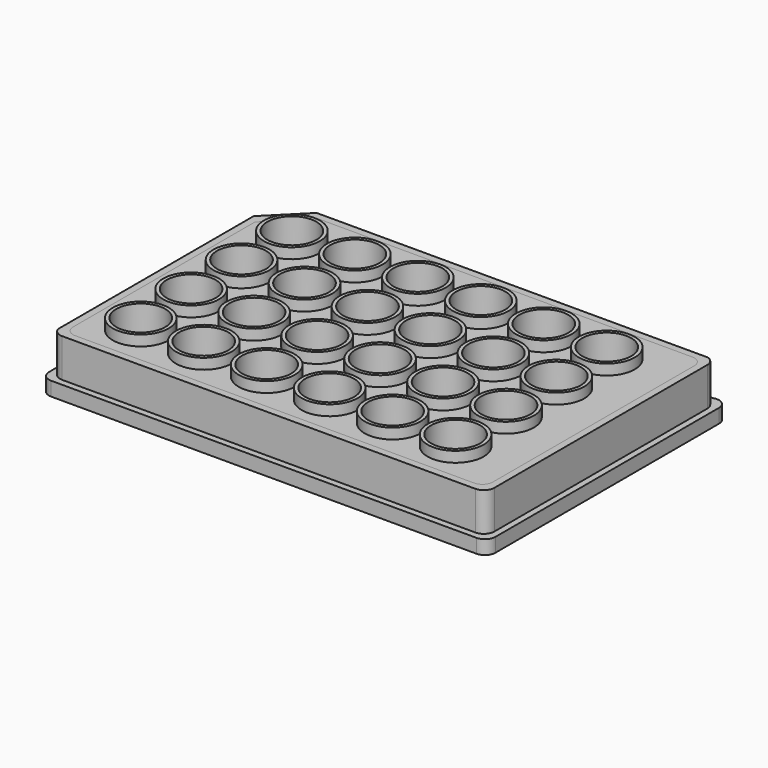
from build123d import *

# Parameters (mm, degrees)
PAD_DEPTH         = 4
CYLINDER001_R     = 7
CYLINDER001_DEPTH = 14
ARRAY_X_COUNT     = 6
ARRAY_X_PITCH     = 18
ARRAY_Y_COUNT     = 4
ARRAY_Y_PITCH     = 18
PAD001_DEPTH      = 11
PAD002_DEPTH      = 4
CYLINDER002_R     = 7
CYLINDER002_DEPTH = 14
ARRAY001_X_COUNT  = 6
ARRAY001_X_PITCH  = 18
ARRAY001_Y_COUNT  = 4
ARRAY001_Y_PITCH  = 18
CYLINDER003_R     = 8
CYLINDER003_DEPTH = 14
ARRAY002_X_COUNT  = 6
ARRAY002_X_PITCH  = 18
ARRAY002_Y_COUNT  = 4
ARRAY002_Y_PITCH  = 18
CYLINDER004_R     = 7
CYLINDER004_DEPTH = 14
ARRAY003_X_COUNT  = 6
ARRAY003_X_PITCH  = 18
ARRAY003_Y_COUNT  = 4
ARRAY003_Y_PITCH  = 18
PAD003_DEPTH      = 11
PAD005_DEPTH      = 4
CYLINDER005_R     = 7
CYLINDER005_DEPTH = 14
ARRAY004_X_COUNT  = 6
ARRAY004_X_PITCH  = 18
ARRAY004_Y_COUNT  = 4
ARRAY004_Y_PITCH  = 18
CYLINDER006_R     = 8
CYLINDER006_DEPTH = 14
ARRAY005_X_COUNT  = 6
ARRAY005_X_PITCH  = 18
ARRAY005_Y_COUNT  = 4
ARRAY005_Y_PITCH  = 18
PAD004_DEPTH      = 11
CYLINDER007_R     = 7
CYLINDER007_DEPTH = 14
ARRAY006_X_COUNT  = 6
ARRAY006_X_PITCH  = 18
ARRAY006_Y_COUNT  = 4
ARRAY006_Y_PITCH  = 18
PAD006_DEPTH      = 11


with BuildPart() as plate_base_down:
    # Sketch → Pad (new body)
    with BuildSketch(Plane.XY):
        with BuildLine():
            Line((113.3, 71.530282), (113.3, -8.36))
            ThreePointArc((110.3, -11.36), (112.42132, -10.48132), (113.3, -8.36))
            Line((110.3, -11.36), (-11.3, -11.36))
            ThreePointArc((-14.3, -8.36), (-13.42132, -10.48132), (-11.3, -11.36))
            Line((-14.3, 71.36), (-14.3, -8.36))
            ThreePointArc((-11.3, 74.36), (-13.42132, 73.48132), (-14.3, 71.36))
            Line((109.30366, 74.36), (-11.3, 74.36))
            ThreePointArc((113.3, 71.530282), (112.033635, 73.978651), (109.30366, 74.36))
        make_face()
    extrude(amount=PAD_DEPTH)


with BuildPart() as plate_base_down_1:
    # Body placement: moved
    add(plate_base_down.part.moved(Location((0, 0, -4))))


with BuildPart() as array_of_wells:
    # Cylinder001 → Cylinder001 (new body)
    with BuildSketch(Plane(origin=(2.2, 3.8, 0), x_dir=(1, 0, 0), z_dir=(0, 0, 1))):
        Circle(CYLINDER001_R)
    extrude(amount=CYLINDER001_DEPTH)

    # Array X: Array of wells ×6


with BuildPart() as array_of_wells_1:
    add(array_of_wells.part)
    with Locations(*[(i * ARRAY_X_PITCH, 0, 0) for i in range(1, ARRAY_X_COUNT)]):
        add(array_of_wells.part)

    # Array Y: Array of wells ×4


with BuildPart() as array_of_wells_2:
    add(array_of_wells_1.part)
    with Locations(*[(0, i * ARRAY_Y_PITCH, 0) for i in range(1, ARRAY_Y_COUNT)]):
        add(array_of_wells_1.part)


with BuildPart() as cutted:
    # Sketch018 → Pad001 (new body)
    with BuildSketch(Plane.XY.offset(4)):
        with BuildLine():
            Line((111.5, 69.60965), (111.5, -6.5))
            ThreePointArc((108.5, -9.5), (110.62132, -8.62132), (111.5, -6.5))
            Line((108.5, -9.5), (-9.627011, -9.5))
            ThreePointArc((-12.5, -7.363675), (-11.417119, -8.907387), (-9.627011, -9.5))
            Line((-12.5, -7.363675), (-12.5, 62.5))
            Line((-2.5, 72.5), (-12.5, 62.5))
            Line((-2.5, 72.5), (109.303666, 72.5))
            ThreePointArc((111.5, 69.60965), (110.888619, 71.424726), (109.303666, 72.5))
        make_face()
    extrude(amount=PAD001_DEPTH)


with BuildPart() as cutted_1:
    # Body012 placement: moved
    add(cutted.part.moved(Location((0, 0, -4))))

    # Cut: cut Array of wells
    add(array_of_wells_2.part, mode=Mode.SUBTRACT)


with BuildPart() as plate_base_down001:
    # Sketch019 → Pad002 (new body)
    with BuildSketch(Plane.XY):
        with BuildLine():
            Line((113.3, 71.530282), (113.3, -8.36))
            ThreePointArc((110.3, -11.36), (112.42132, -10.48132), (113.3, -8.36))
            Line((110.3, -11.36), (-11.3, -11.36))
            ThreePointArc((-14.3, -8.36), (-13.42132, -10.48132), (-11.3, -11.36))
            Line((-14.3, 71.36), (-14.3, -8.36))
            ThreePointArc((-11.3, 74.36), (-13.42132, 73.48132), (-14.3, 71.36))
            Line((109.30366, 74.36), (-11.3, 74.36))
            ThreePointArc((113.3, 71.530282), (112.033635, 73.978651), (109.30366, 74.36))
        make_face()
    extrude(amount=PAD002_DEPTH)


with BuildPart() as plate_base_down001_1:
    # Body013 placement: moved
    add(plate_base_down001.part.moved(Location((0, 0, -4))))


with BuildPart() as array_of_wells001:
    # Cylinder002 → Cylinder002 (new body)
    with BuildSketch(Plane(origin=(2.2, 3.8, 0), x_dir=(1, 0, 0), z_dir=(0, 0, 1))):
        Circle(CYLINDER002_R)
    extrude(amount=CYLINDER002_DEPTH)

    # Array001 X: Array of wells001 ×6


with BuildPart() as array_of_wells001_1:
    add(array_of_wells001.part)
    with Locations(*[(i * ARRAY001_X_PITCH, 0, 0) for i in range(1, ARRAY001_X_COUNT)]):
        add(array_of_wells001.part)

    # Array001 Y: Array of wells001 ×4


with BuildPart() as array_of_wells001_2:
    add(array_of_wells001_1.part)
    with Locations(*[(0, i * ARRAY001_Y_PITCH, 0) for i in range(1, ARRAY001_Y_COUNT)]):
        add(array_of_wells001_1.part)


with BuildPart() as cut001:
    # Cylinder003 → Cylinder003 (new body)
    with BuildSketch(Plane(origin=(2.2, 3.8, 0), x_dir=(1, 0, 0), z_dir=(0, 0, 1))):
        Circle(CYLINDER003_R)
    extrude(amount=CYLINDER003_DEPTH)

    # Array002 X: Cut001 ×6


with BuildPart() as cut001_1:
    add(cut001.part)
    with Locations(*[(i * ARRAY002_X_PITCH, 0, 0) for i in range(1, ARRAY002_X_COUNT)]):
        add(cut001.part)

    # Array002 Y: Cut001 ×4


with BuildPart() as cut001_2:
    add(cut001_1.part)
    with Locations(*[(0, i * ARRAY002_Y_PITCH, 0) for i in range(1, ARRAY002_Y_COUNT)]):
        add(cut001_1.part)

    # Cut001: cut Array of wells001
    add(array_of_wells001_2.part, mode=Mode.SUBTRACT)


with BuildPart() as array_of_wells003:
    # Cylinder004 → Cylinder004 (new body)
    with BuildSketch(Plane(origin=(2.2, 3.8, 0), x_dir=(1, 0, 0), z_dir=(0, 0, 1))):
        Circle(CYLINDER004_R)
    extrude(amount=CYLINDER004_DEPTH)

    # Array003 X: Array of wells003 ×6


with BuildPart() as array_of_wells003_1:
    add(array_of_wells003.part)
    with Locations(*[(i * ARRAY003_X_PITCH, 0, 0) for i in range(1, ARRAY003_X_COUNT)]):
        add(array_of_wells003.part)

    # Array003 Y: Array of wells003 ×4


with BuildPart() as array_of_wells003_2:
    add(array_of_wells003_1.part)
    with Locations(*[(0, i * ARRAY003_Y_PITCH, 0) for i in range(1, ARRAY003_Y_COUNT)]):
        add(array_of_wells003_1.part)


with BuildPart() as cut002:
    # Sketch020 → Pad003 (new body)
    with BuildSketch(Plane.XY.offset(4)):
        with BuildLine():
            Line((111.5, 69.60965), (111.5, -6.5))
            ThreePointArc((108.5, -9.5), (110.62132, -8.62132), (111.5, -6.5))
            Line((108.5, -9.5), (-9.627011, -9.5))
            ThreePointArc((-12.5, -7.363675), (-11.417119, -8.907387), (-9.627011, -9.5))
            Line((-12.5, -7.363675), (-12.5, 62.5))
            Line((-2.5, 72.5), (-12.5, 62.5))
            Line((-2.5, 72.5), (109.303666, 72.5))
            ThreePointArc((111.5, 69.60965), (110.888619, 71.424726), (109.303666, 72.5))
        make_face()
    extrude(amount=PAD003_DEPTH)


with BuildPart() as cut002_1:
    # Body014 placement: moved
    add(cut002.part.moved(Location((0, 0, -4))))

    # Cut002: cut Array of wells003
    add(array_of_wells003_2.part, mode=Mode.SUBTRACT)


with BuildPart() as plate_base_down002:
    # Sketch022 → Pad005 (new body)
    with BuildSketch(Plane.XY):
        with BuildLine():
            Line((113.3, 71.530282), (113.3, -8.36))
            ThreePointArc((110.3, -11.36), (112.42132, -10.48132), (113.3, -8.36))
            Line((110.3, -11.36), (-11.3, -11.36))
            ThreePointArc((-14.3, -8.36), (-13.42132, -10.48132), (-11.3, -11.36))
            Line((-14.3, 71.36), (-14.3, -8.36))
            ThreePointArc((-11.3, 74.36), (-13.42132, 73.48132), (-14.3, 71.36))
            Line((109.30366, 74.36), (-11.3, 74.36))
            ThreePointArc((113.3, 71.530282), (112.033635, 73.978651), (109.30366, 74.36))
        make_face()
    extrude(amount=PAD005_DEPTH)


with BuildPart() as plate_base_down002_1:
    # Body016 placement: moved
    add(plate_base_down002.part.moved(Location((0, 0, -4))))


with BuildPart() as array_of_wells004:
    # Cylinder005 → Cylinder005 (new body)
    with BuildSketch(Plane(origin=(2.2, 3.8, 0), x_dir=(1, 0, 0), z_dir=(0, 0, 1))):
        Circle(CYLINDER005_R)
    extrude(amount=CYLINDER005_DEPTH)

    # Array004 X: Array of wells004 ×6


with BuildPart() as array_of_wells004_1:
    add(array_of_wells004.part)
    with Locations(*[(i * ARRAY004_X_PITCH, 0, 0) for i in range(1, ARRAY004_X_COUNT)]):
        add(array_of_wells004.part)

    # Array004 Y: Array of wells004 ×4


with BuildPart() as array_of_wells004_2:
    add(array_of_wells004_1.part)
    with Locations(*[(0, i * ARRAY004_Y_PITCH, 0) for i in range(1, ARRAY004_Y_COUNT)]):
        add(array_of_wells004_1.part)


with BuildPart() as cut003:
    # Cylinder006 → Cylinder006 (new body)
    with BuildSketch(Plane(origin=(2.2, 3.8, 0), x_dir=(1, 0, 0), z_dir=(0, 0, 1))):
        Circle(CYLINDER006_R)
    extrude(amount=CYLINDER006_DEPTH)

    # Array005 X: Cut003 ×6


with BuildPart() as cut003_1:
    add(cut003.part)
    with Locations(*[(i * ARRAY005_X_PITCH, 0, 0) for i in range(1, ARRAY005_X_COUNT)]):
        add(cut003.part)

    # Array005 Y: Cut003 ×4


with BuildPart() as cut003_2:
    add(cut003_1.part)
    with Locations(*[(0, i * ARRAY005_Y_PITCH, 0) for i in range(1, ARRAY005_Y_COUNT)]):
        add(cut003_1.part)

    # Cut003: cut Array of wells004
    add(array_of_wells004_2.part, mode=Mode.SUBTRACT)


with BuildPart() as plate_middle_recess:
    # Sketch021 → Pad004 (new body)
    with BuildSketch(Plane.XY.offset(4)):
        with BuildLine():
            Line((109.5, 67.5), (109.5, -4.5))
            ThreePointArc((106.5, -7.5), (108.62132, -6.62132), (109.5, -4.5))
            Line((106.5, -7.5), (-7.5, -7.5))
            ThreePointArc((-10.5, -4.5), (-9.62132, -6.62132), (-7.5, -7.5))
            Line((-10.5, -4.5), (-10.5, 60.5))
            Line((-0.5, 70.5), (-10.5, 60.5))
            Line((-0.5, 70.5), (106.5, 70.5))
            ThreePointArc((109.5, 67.5), (108.62132, 69.62132), (106.5, 70.5))
        make_face()
    extrude(amount=PAD004_DEPTH)


with BuildPart() as plate_middle_recess_1:
    # Body015 placement: moved
    add(plate_middle_recess.part.moved(Location((0, 0, -3))))


with BuildPart() as array_of_wells006:
    # Cylinder007 → Cylinder007 (new body)
    with BuildSketch(Plane(origin=(2.2, 3.8, 0), x_dir=(1, 0, 0), z_dir=(0, 0, 1))):
        Circle(CYLINDER007_R)
    extrude(amount=CYLINDER007_DEPTH)

    # Array006 X: Array of wells006 ×6


with BuildPart() as array_of_wells006_1:
    add(array_of_wells006.part)
    with Locations(*[(i * ARRAY006_X_PITCH, 0, 0) for i in range(1, ARRAY006_X_COUNT)]):
        add(array_of_wells006.part)

    # Array006 Y: Array of wells006 ×4


with BuildPart() as array_of_wells006_2:
    add(array_of_wells006_1.part)
    with Locations(*[(0, i * ARRAY006_Y_PITCH, 0) for i in range(1, ARRAY006_Y_COUNT)]):
        add(array_of_wells006_1.part)


with BuildPart() as cut005:
    # Sketch023 → Pad006 (new body)
    with BuildSketch(Plane.XY.offset(4)):
        with BuildLine():
            Line((111.5, 69.60965), (111.5, -6.5))
            ThreePointArc((108.5, -9.5), (110.62132, -8.62132), (111.5, -6.5))
            Line((108.5, -9.5), (-9.627011, -9.5))
            ThreePointArc((-12.5, -7.363675), (-11.417119, -8.907387), (-9.627011, -9.5))
            Line((-12.5, -7.363675), (-12.5, 62.5))
            Line((-2.5, 72.5), (-12.5, 62.5))
            Line((-2.5, 72.5), (109.303666, 72.5))
            ThreePointArc((111.5, 69.60965), (110.888619, 71.424726), (109.303666, 72.5))
        make_face()
    extrude(amount=PAD006_DEPTH)


with BuildPart() as cut005_1:
    # Body017 placement: moved
    add(cut005.part.moved(Location((0, 0, -4))))

    # Cut004: cut Array of wells006
    add(array_of_wells006_2.part, mode=Mode.SUBTRACT)

    # Cut005: cut Plate middle recess
    add(plate_middle_recess_1.part, mode=Mode.SUBTRACT)


solid = Compound([plate_base_down_1.part, cutted_1.part, plate_base_down001_1.part, cut001_2.part, cut002_1.part, plate_base_down002_1.part, cut003_2.part, cut005_1.part])
